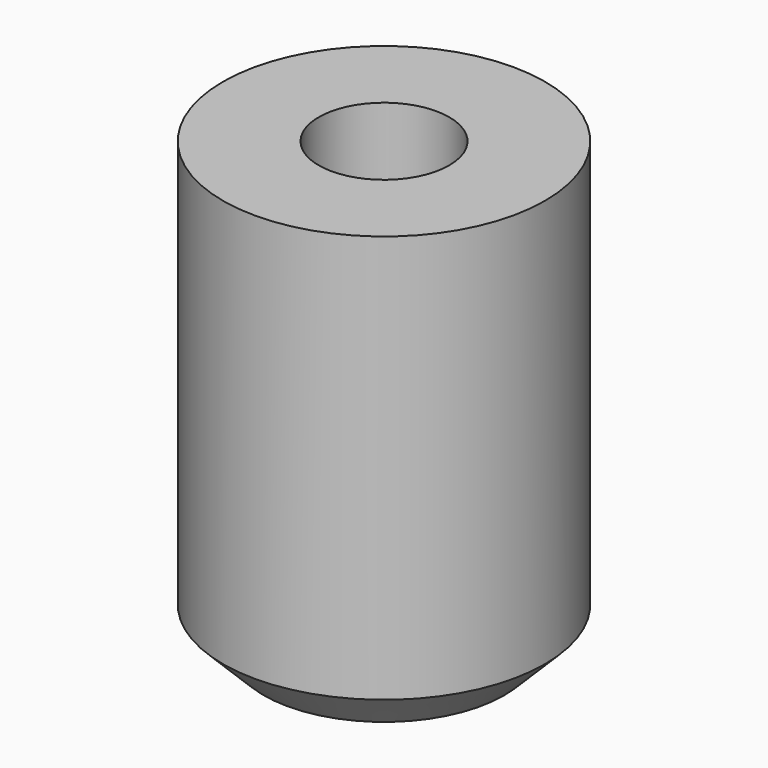
from build123d import *

# Parameters (mm, degrees)
SKETCH_R     = 3.95
SKETCH_R_2   = 1.6
PAD_DEPTH    = 11
CHAMFER_SIZE = 1


with BuildPart() as part:
    # Sketch → Pad (new body)
    with BuildSketch(Plane.XY):
        Circle(SKETCH_R)
        Circle(SKETCH_R_2, mode=Mode.SUBTRACT)
    extrude(amount=PAD_DEPTH)

    # Chamfer
    chamfer_edges = [part.edges().sort_by_distance(p)[0] for p in [
        (-3.95, 0, 0),
    ]]
    chamfer(chamfer_edges, length=CHAMFER_SIZE)


solid = part.part
